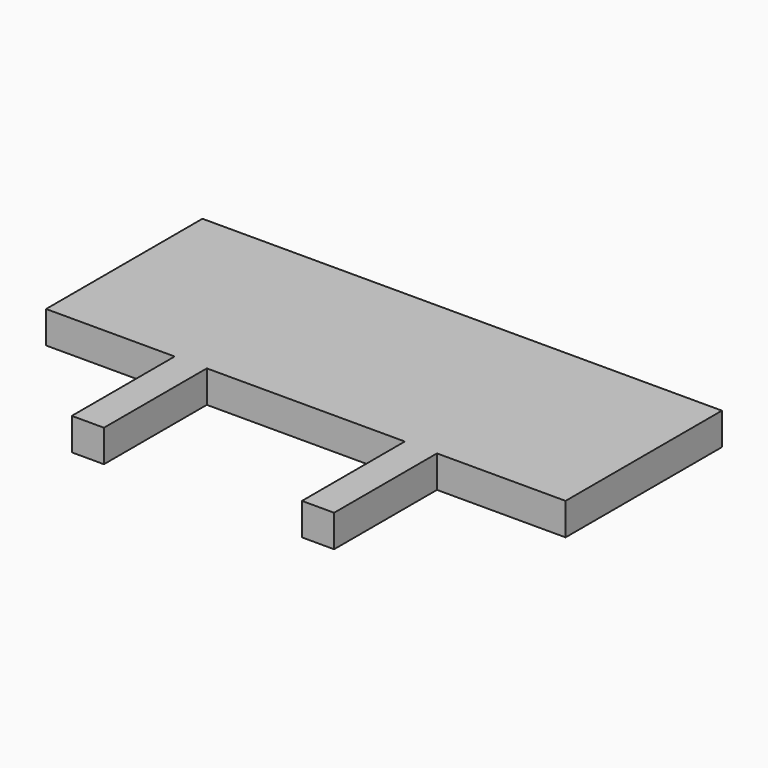
from build123d import *

# Parameters (mm, degrees)
F0_W     = 51.308
F0_H     = 19.304
F1_DEPTH = 3.175
F2_W     = 3.175
F2_H     = 12.7
F3_DEPTH = 3.175


with BuildPart() as f1:
    # F0 (on Top) → F1 (new body)
    with BuildSketch(Plane.XY):
        with Locations((25.654, 9.652)):
            Rectangle(F0_W, F0_H)
    extrude(amount=F1_DEPTH)

    # F2 (on face) → F3 (join)
    with BuildSketch(Plane.XY.offset(3.175)):
        with Locations((37.0205, -6.35)):
            Rectangle(F2_W, F2_H)
        with Locations((14.2875, -6.35)):
            Rectangle(F2_W, F2_H)
    extrude(amount=-F3_DEPTH)


solid = f1.part
